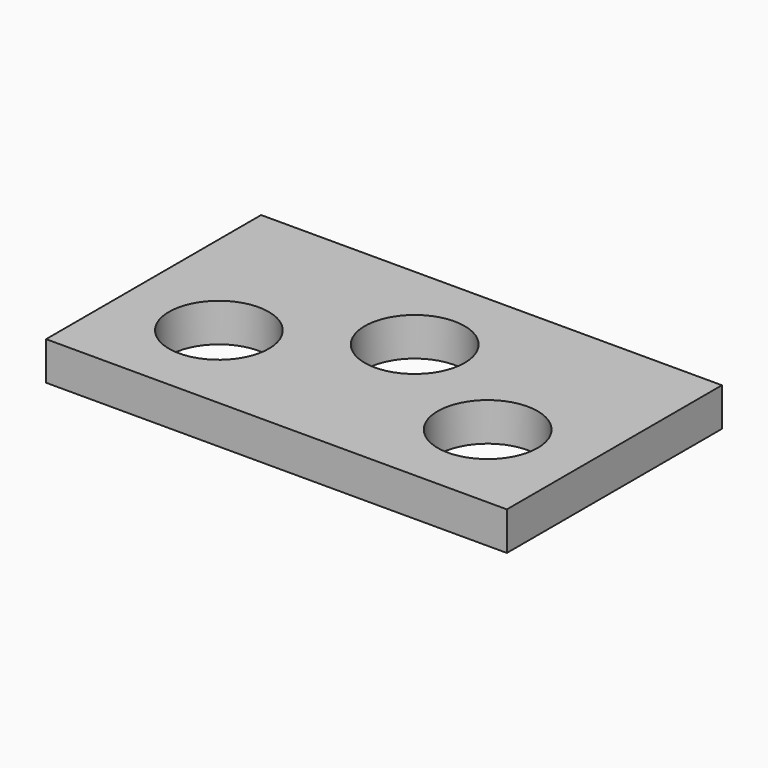
from build123d import *

# Parameters (mm, degrees)
F0_W     = 152.4
F0_H     = 88.9
F0_R     = 16.51
F1_DEPTH = 12.7


with BuildPart() as f1:
    # F0 (on Top) → F1 (new body)
    with BuildSketch(Plane.XY):
        Rectangle(F0_W, F0_H)
        with Locations((-44.45, -12.7)):
            Circle(F0_R, mode=Mode.SUBTRACT)
        with Locations((44.45, -12.7)):
            Circle(F0_R, mode=Mode.SUBTRACT)
        with Locations((0, 12.7)):
            Circle(F0_R, mode=Mode.SUBTRACT)
    extrude(amount=-F1_DEPTH)


solid = f1.part
